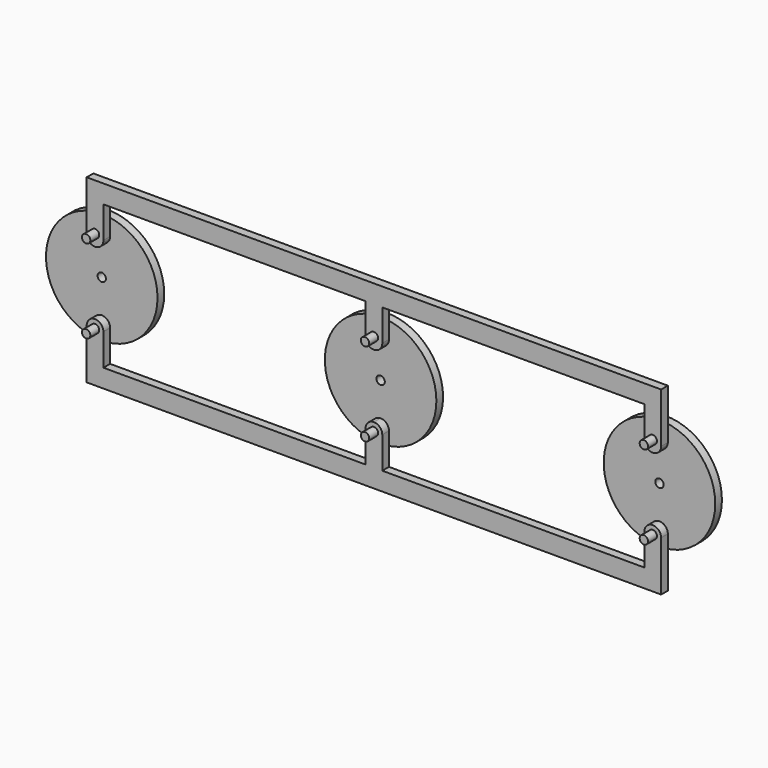
from build123d import *

# Parameters (mm, degrees)
F0_R     = 20
F0_R_2   = 1.5
F1_DEPTH = 3
F2_DEPTH = 10
F3_W     = 94
F3_H     = 6.5857475996
F3_W_2   = 6
F4_DEPTH = 3


with BuildPart() as f1:
    # F0 (on Front) → F1 (new body)
    with BuildSketch(Plane.XZ):
        with Locations((-100, 0)):
            Circle(F0_R)
        with Locations((-100, -15)):
            Circle(F0_R_2, mode=Mode.SUBTRACT)
        with Locations((-100, 0)):
            Circle(F0_R_2, mode=Mode.SUBTRACT)
        with Locations((-100, 15)):
            Circle(F0_R_2, mode=Mode.SUBTRACT)
    extrude(amount=F1_DEPTH)

    # F0 (on Front) → F2 (join)
    with BuildSketch(Plane.XZ):
        with Locations((-100, 15)):
            Circle(F0_R_2)
        with Locations((-100, -15)):
            Circle(F0_R_2)
    extrude(amount=F2_DEPTH)


with BuildPart() as f1b:
    # F0 (on Front) → F1, piece 2 (new body)
    with BuildSketch(Plane.XZ):
        Circle(F0_R)
        with Locations((0, -15)):
            Circle(F0_R_2, mode=Mode.SUBTRACT)
        Circle(F0_R_2, mode=Mode.SUBTRACT)
        with Locations((0, 15)):
            Circle(F0_R_2, mode=Mode.SUBTRACT)
    extrude(amount=F1_DEPTH)

    # F0 (on Front) → F2, piece 3 (join)
    with BuildSketch(Plane.XZ):
        with Locations((0, -15)):
            Circle(F0_R_2)
        with Locations((0, 15)):
            Circle(F0_R_2)
    extrude(amount=F2_DEPTH)


with BuildPart() as f1c:
    # F0 (on Front) → F1, piece 3 (new body)
    with BuildSketch(Plane.XZ):
        with Locations((100, 0)):
            Circle(F0_R)
        with Locations((100, -15)):
            Circle(F0_R_2, mode=Mode.SUBTRACT)
        with Locations((100, 0)):
            Circle(F0_R_2, mode=Mode.SUBTRACT)
        with Locations((100, 15)):
            Circle(F0_R_2, mode=Mode.SUBTRACT)
    extrude(amount=F1_DEPTH)

    # F0 (on Front) → F2, piece 2 (join)
    with BuildSketch(Plane.XZ):
        with Locations((100, 15)):
            Circle(F0_R_2)
        with Locations((100, -15)):
            Circle(F0_R_2)
    extrude(amount=F2_DEPTH)


with BuildPart() as f4:
    # F3 (on face) → F4 (new body)
    with BuildSketch(Plane.XZ.offset(3)):
        with BuildLine():
            Line((-103, -15), (-97, -15))
            ThreePointArc((-97, -15), (-100, -12), (-103, -15))
        make_face()
        with BuildLine():
            Line((-97, -26.363696903), (-97, -15))
            ThreePointArc((-97, -15), (-100, -18), (-103, -15))
            Line((-103, -15), (-103, -26.363696903))
            Line((-103, -26.363696903), (-97, -26.363696903))
        make_face()
        with BuildLine():
            ThreePointArc((-103, -15), (-100, -18), (-97, -15))
            Line((-97, -15), (-103, -15))
        make_face()
        with Locations((-50, -29.6565707028)):
            Rectangle(F3_W, F3_H)
        with Locations((-100, -29.6565707028)):
            Rectangle(F3_W_2, F3_H)
        with Locations((0, -29.6565707028)):
            Rectangle(F3_W_2, F3_H)
        with BuildLine():
            Line((-3, -15), (-3, -26.363696903))
            Line((-3, -26.363696903), (3, -26.363696903))
            Line((3, -26.363696903), (3, -15))
            ThreePointArc((3, -15), (0, -18), (-3, -15))
        make_face()
        with BuildLine():
            ThreePointArc((0, -12), (-2.1213203436, -12.8786796564), (-3, -15))
            ThreePointArc((-3, -15), (0, -18), (3, -15))
            ThreePointArc((3, -15), (2.1213203436, -12.8786796564), (0, -12))
        make_face()
        with Locations((50, -29.6565707028)):
            Rectangle(F3_W, F3_H)
        with Locations((100, -29.6565707028)):
            Rectangle(F3_W_2, F3_H)
        with BuildLine():
            Line((97, -15), (97, -26.363696903))
            Line((97, -26.363696903), (103, -26.363696903))
            Line((103, -26.363696903), (103, -15))
            ThreePointArc((103, -15), (100, -18), (97, -15))
        make_face()
        with BuildLine():
            ThreePointArc((103, -15), (100, -12), (97, -15))
            ThreePointArc((97, -15), (100, -18), (103, -15))
        make_face()
    extrude(amount=F4_DEPTH)


with BuildPart() as f5_1:
    # F5: instance of F4
    add(f4.part.mirror(Plane(origin=(50, -4.5, -26.363696903), x_dir=(1, 0, 0), z_dir=(0, 0, 1))))


with BuildPart() as f5_1_1:
    # F6: moved
    add(f5_1.part.moved(Location((0, 0, 51.57561))))


solid = Compound([f1.part, f1b.part, f1c.part, f4.part, f5_1_1.part])
